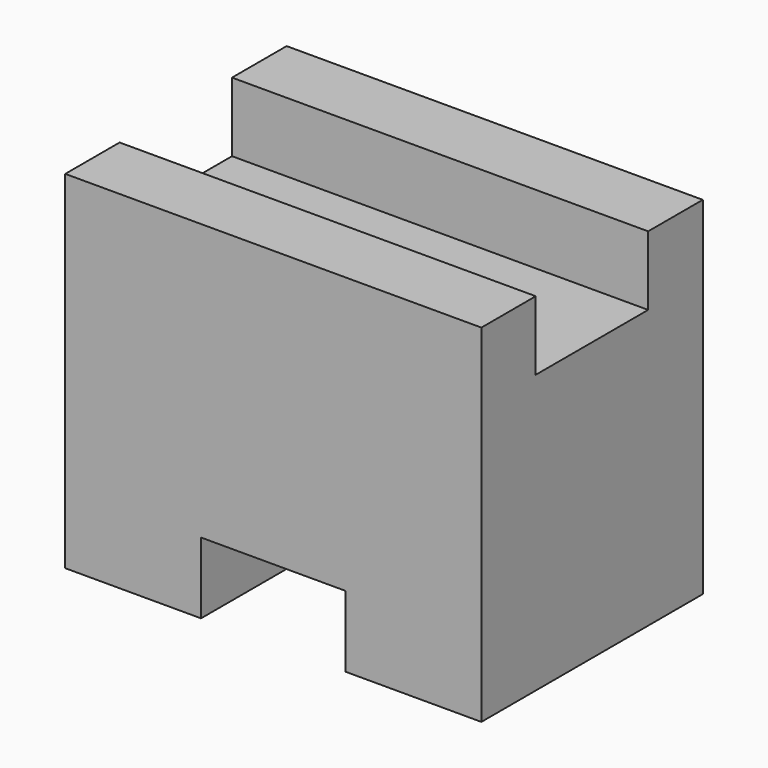
from build123d import *

# Parameters (mm, degrees)
F0_W     = 38.195732
F0_H     = 31.86328
F1_DEPTH = 25.4
F2_W     = 38.195732
F2_H     = 12.898704
F3_DEPTH = 6.35
F4_W     = 13.267988
F4_H     = 6.53348
F5_DEPTH = 25.401


with BuildPart() as f1:
    # F0 (on Front) → F1 (new body)
    with BuildSketch(Plane.XZ):
        with Locations((-26.033404, 15.93164)):
            Rectangle(F0_W, F0_H)
    extrude(amount=F1_DEPTH)

    # F2 (on face) → F3 (cut)
    with BuildSketch(Plane.XY.offset(31.86328)):
        with Locations((-26.033404, -12.713994)):
            Rectangle(F2_W, F2_H)
    extrude(amount=-F3_DEPTH, mode=Mode.SUBTRACT)

    # F4 (on face) → F5 (cut, through all)
    with BuildSketch(Plane.XZ.offset(25.4)):
        with Locations((-26.033404, 3.26674)):
            Rectangle(F4_W, F4_H)
    extrude(amount=-F5_DEPTH, mode=Mode.SUBTRACT)


solid = f1.part
